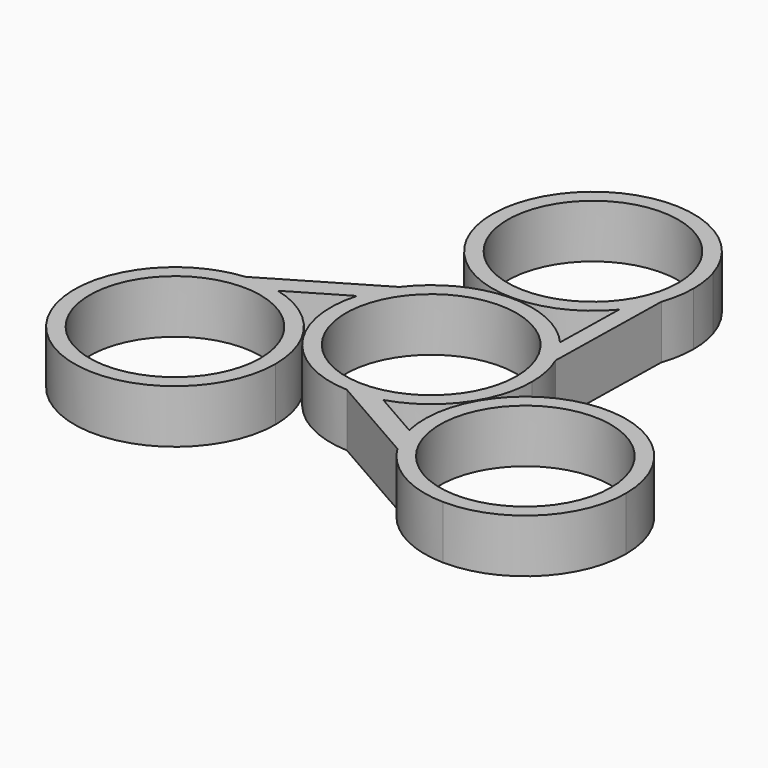
from build123d import *

# Parameters (mm, degrees)
F0_R     = 11.2
F1_DEPTH = 7


with BuildPart() as f1:
    # F0 (on Top) → F1 (new body)
    with BuildSketch(Plane.XY):
        with BuildLine():
            ThreePointArc((12.123292, 5.221666), (11.183436, 7.012186), (9.981113, 8.638135))
            ThreePointArc((9.981113, 8.638135), (4.611952, 12.3681), (-1.888507, 13.064208))
            Line((-1.888507, 13.064208), (-10.525798, 7.965398))
            ThreePointArc((-10.525798, 7.965398), (-11.79368, 5.928668), (-12.671973, 3.696092))
            ThreePointArc((-12.671973, 3.696092), (-13.063186, -1.895567), (-11.09879, -7.145409))
            Line((-11.09879, -7.145409), (-0.510644, -13.190119))
            ThreePointArc((-0.510644, -13.190119), (1.682807, -13.092294), (3.829698, -12.632237))
            ThreePointArc((3.829698, -12.632237), (8.600491, -10.013568), (11.909344, -5.69276))
            Line((11.909344, -5.69276), (12.123292, 5.221666))
        make_face()
        Circle(F0_R, mode=Mode.SUBTRACT)
        with BuildLine():
            Line((10.166517, 18.096395), (9.981113, 8.638135))
            ThreePointArc((9.981113, 8.638135), (11.183436, 7.012186), (12.123292, 5.221666))
            Line((12.123292, 5.221666), (12.455003, 22.143704))
            ThreePointArc((12.455003, 22.143704), (11.490364, 20.018495), (10.166517, 18.096395))
        make_face()
        with BuildLine():
            Line((-10.525798, 7.965398), (-1.888507, 13.064208))
            ThreePointArc((-1.888507, 13.064208), (-6.710306, 11.367136), (-10.525798, 7.965398))
        make_face()
        with BuildLine():
            ThreePointArc((13.2, 0), (12.928021, 2.665759), (12.123292, 5.221666))
            Line((12.123292, 5.221666), (11.909344, -5.69276))
            ThreePointArc((11.909344, -5.69276), (12.873293, -2.918618), (13.2, 0))
        make_face()
        with BuildLine():
            ThreePointArc((12.616765, 30.395904), (-12.945615, 29.094498), (10.166517, 18.096395))
            ThreePointArc((10.166517, 18.096395), (11.490364, 20.018495), (12.455003, 22.143704))
            Line((12.455003, 22.143704), (12.616765, 30.395904))
        make_face()
        with Locations((0, 26.515536)):
            Circle(F0_R, mode=Mode.SUBTRACT)
        with BuildLine():
            ThreePointArc((-12.671973, 3.696092), (-11.79368, 5.928668), (-10.525798, 7.965398))
            Line((-10.525798, 7.965398), (-24.227338, -0.122965))
            ThreePointArc((-24.227338, -0.122965), (-21.962197, -0.101966), (-19.72682, -0.468561))
            Line((-19.72682, -0.468561), (-12.671973, 3.696092))
        make_face()
        with BuildLine():
            Line((12.616765, 30.395904), (12.455003, 22.143704))
            ThreePointArc((12.455003, 22.143704), (13.012418, 24.298109), (13.2, 26.515536))
            ThreePointArc((13.2, 26.515536), (13.053377, 28.477513), (12.616765, 30.395904))
        make_face()
        with BuildLine():
            Line((-33.871559, -5.816192), (-24.227338, -0.122965))
            ThreePointArc((-24.227338, -0.122965), (-29.68316, -1.896083), (-33.871559, -5.816192))
        make_face()
        with BuildLine():
            ThreePointArc((-19.72682, -0.468561), (-21.962197, -0.101966), (-24.227338, -0.122965))
            Line((-24.227338, -0.122965), (-33.871559, -5.816192))
            ThreePointArc((-33.871559, -5.816192), (-26.870102, -25.87478), (-9.772853, -13.263219))
            ThreePointArc((-9.772853, -13.263219), (-12.554417, -5.157901), (-19.72682, -0.468561))
        make_face()
        with Locations((-22.972853, -13.263219)):
            Circle(F0_R, mode=Mode.SUBTRACT)
        with BuildLine():
            Line((10.094531, -16.208793), (3.829698, -12.632237))
            ThreePointArc((3.829698, -12.632237), (1.682807, -13.092294), (-0.510644, -13.190119))
            Line((-0.510644, -13.190119), (11.707996, -20.165669))
            ThreePointArc((11.707996, -20.165669), (10.740083, -18.252955), (10.094531, -16.208793))
        make_face()
        with BuildLine():
            Line((-0.510644, -13.190119), (-11.09879, -7.145409))
            ThreePointArc((-11.09879, -7.145409), (-6.544415, -11.463448), (-0.510644, -13.190119))
        make_face()
        with BuildLine():
            ThreePointArc((36.162986, -13.268916), (21.483729, -0.152065), (10.094531, -16.208793))
            ThreePointArc((10.094531, -16.208793), (10.740083, -18.252955), (11.707996, -20.165669))
            Line((11.707996, -20.165669), (22.745877, -26.467131))
            ThreePointArc((22.745877, -26.467131), (32.219717, -22.679172), (36.162986, -13.268916))
        make_face()
        with Locations((22.962986, -13.268916)):
            Circle(F0_R, mode=Mode.SUBTRACT)
        with BuildLine():
            Line((22.745877, -26.467131), (11.707996, -20.165669))
            ThreePointArc((11.707996, -20.165669), (16.418571, -24.732364), (22.745877, -26.467131))
        make_face()
    extrude(amount=F1_DEPTH)


solid = f1.part
